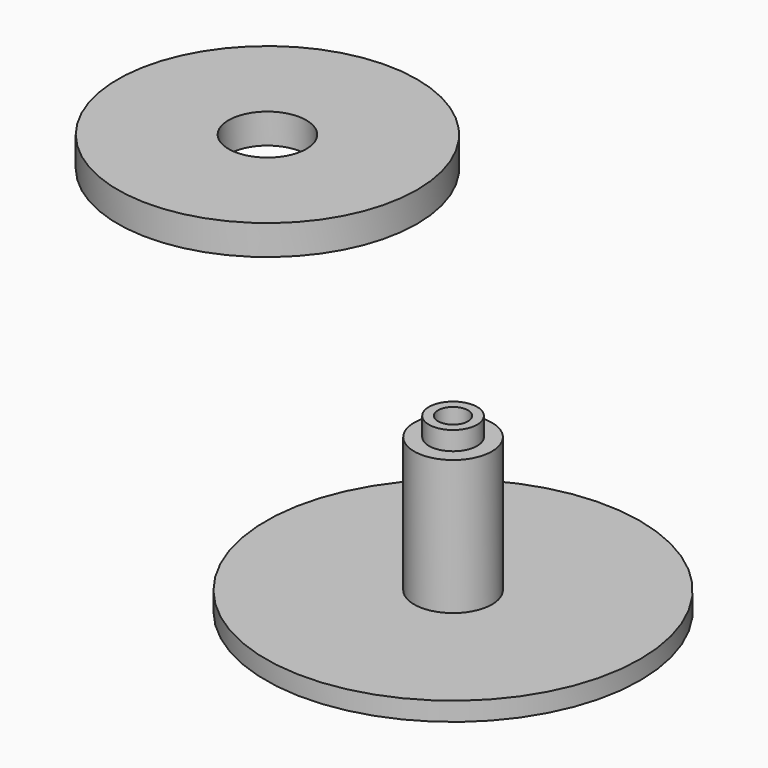
from build123d import *

# Parameters (mm, degrees)
F0_R      = 15.875
F2_DEPTH  = 1.5875
F3_R      = 3.302
F4_DEPTH  = 11.43
F5_R      = 2.0447
F6_DEPTH  = 1.5875
F7_R      = 1.27
F8_DEPTH  = 19.05
F9_R      = 2.667
F10_DEPTH = 6.35
F11_R     = 12.7
F12_DEPTH = 2.54
F13_R     = 3.302
F14_DEPTH = 2.54


with BuildPart() as f2:
    # F0 (on Top) → F2 (new body)
    with BuildSketch(Plane.XY):
        Circle(F0_R)
    extrude(amount=F2_DEPTH)

    # F3 (on face) → F4 (join)
    with BuildSketch(Plane.XY.offset(1.5875)):
        Circle(F3_R)
    extrude(amount=F4_DEPTH)

    # F5 (on face) → F6 (join)
    with BuildSketch(Plane.XY.offset(13.0175)):
        Circle(F5_R)
    extrude(amount=F6_DEPTH)

    # F7 (on face) → F8 (cut)
    with BuildSketch(Plane.XY.offset(14.605)):
        Circle(F7_R)
    extrude(amount=-F8_DEPTH, mode=Mode.SUBTRACT)

    # F9 (on face) → F10 (cut)
    with BuildSketch(Plane.XY):
        Circle(F9_R)
    extrude(amount=-F10_DEPTH, mode=Mode.SUBTRACT)


with BuildPart() as f12:
    # F11 (on Top) → F12 (new body)
    with BuildSketch(Plane.XY):
        with Locations((-49.282685, 41.919351)):
            Circle(F11_R)
    extrude(amount=F12_DEPTH)

    # F13 (on face) → F14 (cut)
    with BuildSketch(Plane.XY.offset(2.54)):
        with Locations((-49.282685, 41.919351)):
            Circle(F13_R)
    extrude(amount=-F14_DEPTH, mode=Mode.SUBTRACT)


solid = Compound([f2.part, f12.part])
